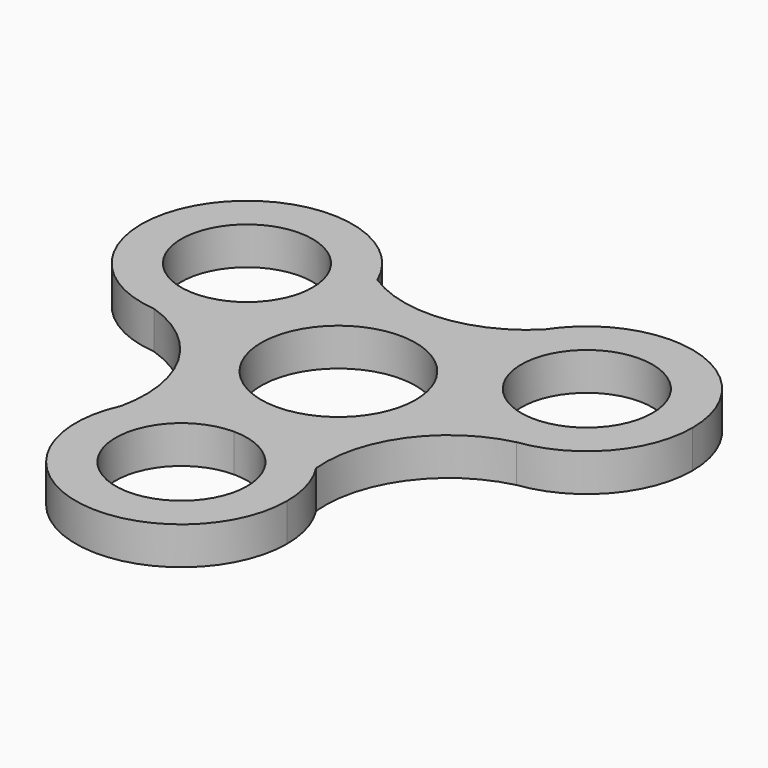
from build123d import *

# Parameters (mm, degrees)
F1_DEPTH = 6.35


with BuildPart() as f1:
    # F0 (on Top) → F1 (new body)
    with BuildSketch(Plane.XY):
        with BuildLine():
            ThreePointArc((-30.0819607702, 11.9151759356), (-20.3578704511, 13.8767489709), (-13.1982271915, 20.7429859098))
            ThreePointArc((-13.1982271915, 20.7429859098), (-11.4219976513, 25.0311833169), (-10.816158833, 29.6329859753))
            ThreePointArc((-10.816158833, 29.6329859753), (-11.179762963, 33.2103530099), (-12.2557038161, 36.6414044732))
            ThreePointArc((-12.2557038161, 36.6414044732), (-43.0187721174, 40.03090048), (-30.0819607702, 11.9151759356))
        make_face()
        with BuildLine():
            ThreePointArc((-17.547158833, 29.6329859753), (-17.9236443783, 26.773294346), (-19.0274441465, 24.1084859753))
            ThreePointArc((-19.0274441465, 24.1084859753), (-39.2686732876, 32.4926776046), (-17.547158833, 29.6329859753))
        make_face(mode=Mode.SUBTRACT)
        with BuildLine():
            ThreePointArc((13.6786666056, 39.3075312177), (10.8221098654, 30.0929678224), (13.1982271824, 20.7429859256))
            ThreePointArc((13.1982271824, 20.7429859256), (20.7152486277, 13.6949919254), (30.8792758859, 12.0001819861))
            ThreePointArc((30.8792758859, 12.0001819861), (41.9513492322, 17.8955548509), (46.376158833, 29.6329859753))
            ThreePointArc((46.376158833, 29.6329859753), (33.6407295877, 46.6823468402), (13.6786666056, 39.3075312177))
        make_face()
        with BuildLine():
            ThreePointArc((39.645158833, 29.6329859753), (31.4558504623, 18.9604715206), (19.0274441465, 24.1084859753))
            ThreePointArc((19.0274441465, 24.1084859753), (25.7364672036, 40.30550043), (39.645158833, 29.6329859753))
        make_face(mode=Mode.SUBTRACT)
        with BuildLine():
            ThreePointArc((14.9259864768, -10.2355789505), (8.4955307169, -4.2779757112), (-3.9e-09, -2.1170140247))
            ThreePointArc((-3.9e-09, -2.1170140247), (-9.5695821881, -4.9119715908), (-16.1305506354, -12.4181279982))
            ThreePointArc((-16.1305506354, -12.4181279982), (-3.8293086649, -37.259755604), (17.78, -19.8970140247))
            ThreePointArc((17.78, -19.8970140247), (17.0515752873, -14.8599334991), (14.9259864768, -10.2355789505))
        make_face()
        with BuildLine():
            ThreePointArc((11.049, -19.8970140247), (-7.8128228253, -27.70983685), (0, -8.8480140247))
            ThreePointArc((0, -8.8480140247), (7.8128228253, -12.0841911994), (11.049, -19.8970140247))
        make_face(mode=Mode.SUBTRACT)
        with BuildLine():
            ThreePointArc((30.8792758859, 12.0001819861), (20.7152486277, 13.6949919254), (13.1982271824, 20.7429859256))
            ThreePointArc((13.1982271824, 20.7429859256), (14.7207096001, 17.0673881949), (15.24, 13.1229859753))
            ThreePointArc((15.24, 13.1229859753), (10.7763073439, 2.3466786287), (-3.9e-09, -2.1170140247))
            ThreePointArc((-3.9e-09, -2.1170140247), (8.4955307169, -4.2779757112), (14.9259864768, -10.2355789505))
            ThreePointArc((14.9259864768, -10.2355789505), (18.7381800343, 3.8701324523), (30.8792758859, 12.0001819861))
        make_face()
        with BuildLine():
            ThreePointArc((-13.1982271915, 20.7429859098), (-9.1e-09, 28.3629859753), (13.1982271824, 20.7429859256))
            ThreePointArc((13.1982271824, 20.7429859256), (10.8221098654, 30.0929678224), (13.6786666056, 39.3075312177))
            ThreePointArc((13.6786666056, 39.3075312177), (1.1802177429, 33.4149013853), (-12.2557038161, 36.6414044732))
            ThreePointArc((-12.2557038161, 36.6414044732), (-11.179762963, 33.2103530099), (-10.816158833, 29.6329859753))
            ThreePointArc((-10.816158833, 29.6329859753), (-11.4219976513, 25.0311833169), (-13.1982271915, 20.7429859098))
        make_face()
        with BuildLine():
            ThreePointArc((-16.1305506354, -12.4181279982), (-9.5695821881, -4.9119715908), (-3.9e-09, -2.1170140247))
            ThreePointArc((-3.9e-09, -2.1170140247), (-13.1982271357, 5.5029859442), (-13.1982271915, 20.7429859098))
            ThreePointArc((-13.1982271915, 20.7429859098), (-20.3578704511, 13.8767489709), (-30.0819607702, 11.9151759356))
            ThreePointArc((-30.0819607702, 11.9151759356), (-18.3961354972, 2.4490540304), (-16.1305506354, -12.4181279982))
        make_face()
        with BuildLine():
            Line((0, -2.1170140247), (0, 0.1261395605))
            ThreePointArc((0, 0.1261395605), (-11.2555991643, 6.6245627679), (-11.2555991643, 19.6214091827))
            Line((-11.2555991643, 19.6214091827), (-13.1982271537, 20.7429859753))
            ThreePointArc((-13.1982271915, 20.7429859098), (-13.1982271357, 5.5029859442), (-3.9e-09, -2.1170140247))
        make_face()
        with BuildLine():
            ThreePointArc((-11.2555991643, 19.6214091827), (0, 26.1198323901), (11.2555991643, 19.6214091827))
            Line((11.2555991643, 19.6214091827), (13.1982271537, 20.7429859753))
            ThreePointArc((13.1982271824, 20.7429859256), (-9.1e-09, 28.3629859753), (-13.1982271915, 20.7429859098))
            Line((-13.1982271537, 20.7429859753), (-11.2555991643, 19.6214091827))
        make_face()
        with BuildLine():
            ThreePointArc((11.2555991643, 19.6214091827), (12.5539896124, 16.4868173537), (12.9968464148, 13.1229859753))
            ThreePointArc((12.9968464148, 13.1229859753), (9.190158234, 3.9328277413), (0, 0.1261395605))
            Line((0, 0.1261395605), (0, -2.1170140247))
            ThreePointArc((-3.9e-09, -2.1170140247), (10.7763073439, 2.3466786287), (15.24, 13.1229859753))
            ThreePointArc((15.24, 13.1229859753), (14.7207096001, 17.0673881949), (13.1982271824, 20.7429859256))
            Line((13.1982271537, 20.7429859753), (11.2555991643, 19.6214091827))
        make_face()
    extrude(amount=F1_DEPTH)


solid = f1.part
